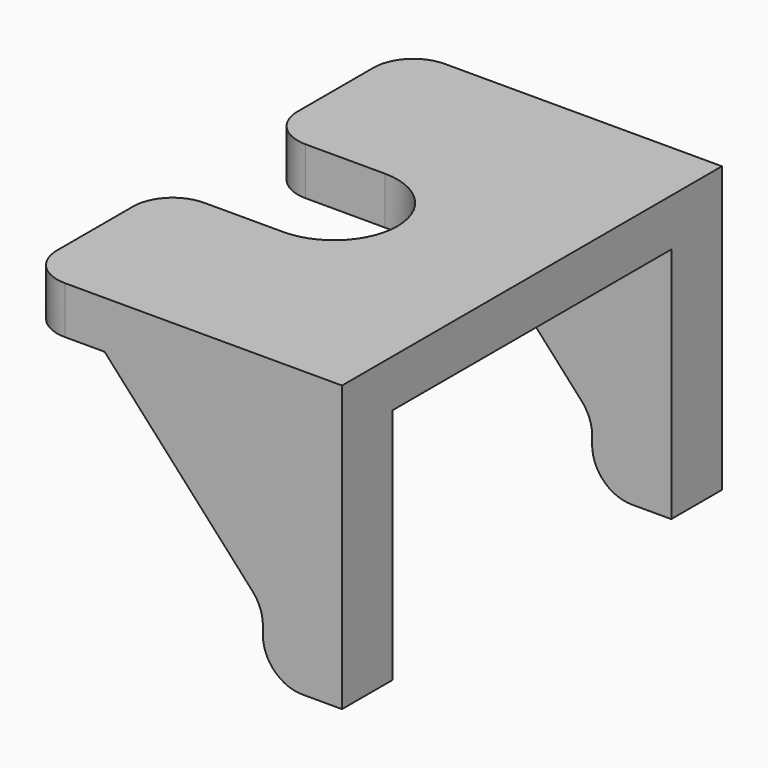
from build123d import *

# Parameters (mm, degrees)
PAD073_DEPTH            = 1.2
PAD074_DEPTH            = 1.6
LINEARPATTERN007_COUNT  = 2
LINEARPATTERN007_PITCH  = 10.4
FILLET029_R             = 1
FILLET030_R             = 1
FILLET031_R             = 1
BODY022_PLACEMENT_ANGLE = 180


with BuildPart() as part:
    # Sketch103 → Pad073 (new body)
    with BuildSketch(Plane.XY):
        with BuildLine():
            Line((-4, 6), (4, 6))
            Line((4, 6), (4, 1.6))
            Line((1, 1.6), (4, 1.6))
            ThreePointArc((1, 1.6), (-0.6, 0), (1, -1.6))
            Line((4, -1.6), (1, -1.6))
            Line((4, -1.6), (4, -6))
            Line((4, -6), (-4, -6))
            Line((-4, -6), (-4, 6))
        make_face()
    extrude(amount=PAD073_DEPTH)

    # Sketch104 (on DatumPlane) → Pad074 (join)
    with BuildSketch(Plane.XZ.offset(6)):
        Polygon((-4, 0), (-4, -6), (-2, -6), (-2, -4.4), (2, 0), align=None)
    pad074 = extrude(amount=-PAD074_DEPTH)

    # LinearPattern007: Pad074 ×2
    with Locations(*[(0, i * LINEARPATTERN007_PITCH, 0) for i in range(1, LINEARPATTERN007_COUNT)]):
        add(pad074)

    # Fillet029
    fillet029_edges = [part.edges().sort_by_distance(p)[0] for p in [
        (-2, -5.2, -6),
        (-2, 5.2, -6),
    ]]
    fillet(fillet029_edges, radius=FILLET029_R)

    # Fillet030
    fillet030_edges = [part.edges().sort_by_distance(p)[0] for p in [
        (-2, -5.2, -4.4),
        (-2, 5.2, -4.4),
    ]]
    fillet(fillet030_edges, radius=FILLET030_R)

    # Fillet031
    fillet031_edges = [part.edges().sort_by_distance(p)[0] for p in [
        (4, -6, 0.6),
        (4, -1.6, 0.6),
        (4, 1.6, 0.6),
        (4, 6, 0.6),
    ]]
    fillet(fillet031_edges, radius=FILLET031_R)


with BuildPart() as part_1:
    # Body022 placement: moved
    add(part.part.moved(Location((-38.8, -49, 34.1))).rotate(Axis((-38.8, -49, 34.1), (0, 0, 1)), BODY022_PLACEMENT_ANGLE))


solid = part_1.part
